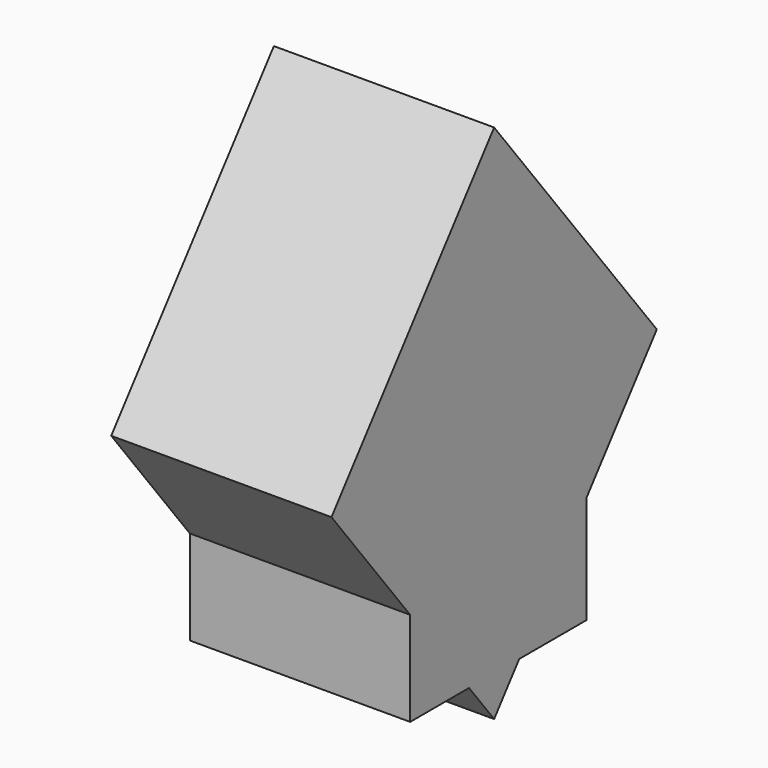
from build123d import *

# Parameters (mm, degrees)
F0_W      = 12.7
F0_H      = 12.7
F1_DEPTH  = 12.7
F3_DEPTH  = 12.7
F3_FACE_W = 12.7
F3_FACE_H = 19.05


with BuildPart() as f1:
    # F0 (on Top) → F1 (new body)
    with BuildSketch(Plane.XY):
        with Locations((-42.6943581551, 29.7822718922)):
            Rectangle(F0_W, F0_H)
    extrude(amount=F1_DEPTH)

    # F2 (on face) → F3 (join)
    with BuildSketch(Plane.YZ.offset(-36.3443581551)):
        Polygon((17.7597312508, 12.7), (23.4322718922, 12.7), (36.1322718922, 12.7), (41.2083510732, 12.7), (29.484041162, 27.714761307), align=None)
    extrude(amount=-F3_DEPTH)

    # F4: sweep along a path in F4_path
    with BuildLine(Plane(origin=(-49.0443581551, 29.484041162, 27.714761307), x_dir=(0, -0.6154493392, 0.7881764466), z_dir=(0, -0.7881764466, -0.6154493392))) as f4_path:
        Line((0, 0), (-19.05, 0))
    # F3_face (on face) → F4 (sweep)
    with BuildSketch(Plane(origin=(-42.6943581551, 23.6218862064, 20.2073806535), x_dir=(1, 0, 0), z_dir=(0, -0.7881764466, 0.6154493392))):
        Rectangle(F3_FACE_W, F3_FACE_H)
    sweep(path=f4_path.line)


solid = f1.part
